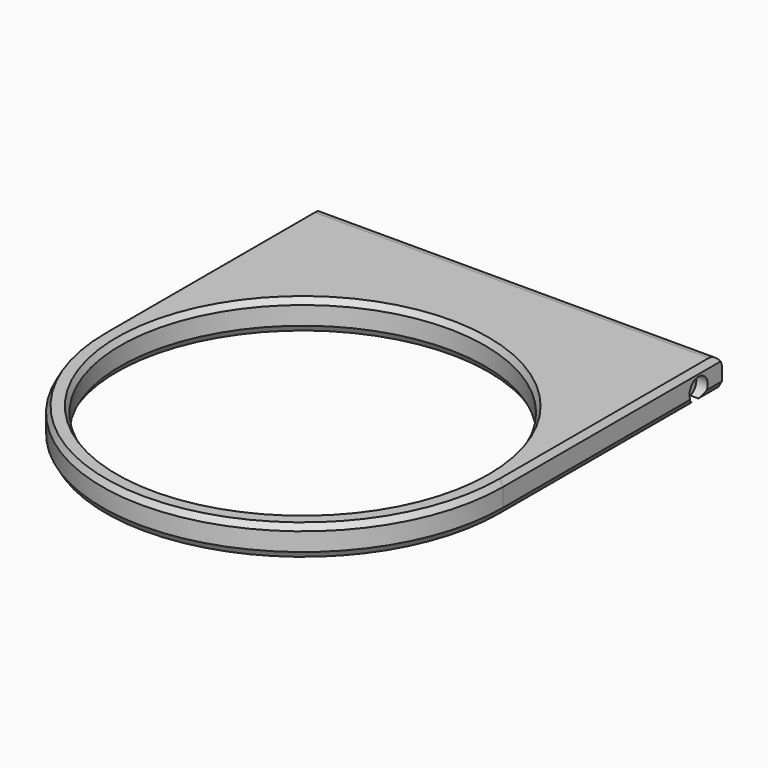
from build123d import *

# Parameters (mm, degrees)
F0_R                 = 60
F1_DEPTH             = 10
F2_SIZE2             = 1.1547005384
F2_SIZE              = 2
F2_2_SIZE2           = 1.1547005384
F2_2_SIZE            = 2
F3_R                 = 4
F4_W                 = 5
F4_H                 = 50
F4_W_2               = 2.6
F4_H_2               = 5.7
F5_DEPTH             = 7.4
F8_D                 = 3.4
F8_DEPTH             = 15
F8_CBORE_D           = 7.5
F8_CBORE_DEPTH       = 3.75
F8_TIP               = 1.0214630523
F8_ON_F7_D           = 3.4
F8_ON_F7_DEPTH       = 15
F8_ON_F7_CBORE_D     = 7.5
F8_ON_F7_CBORE_DEPTH = 3.75
F8_ON_F7_TIP         = 1.0214630523


with BuildPart() as f1:
    # F0 (on Top) → F1 (new body)
    with BuildSketch(Plane.XY):
        with BuildLine():
            Line((-66, 90), (-66, 0))
            ThreePointArc((-66, 0), (0, -66), (66, 0))
            Line((66, 0), (66, 90))
            Line((66, 90), (-66, 90))
        make_face()
        Circle(F0_R, mode=Mode.SUBTRACT)
    extrude(amount=F1_DEPTH)

    # F2
    f2_edges = [f1.edges().sort_by_distance(p)[0] for p in [
        (0, -66, 0),
        (0, -66, 10),
    ]]
    f2_side = f1.faces().sort_by_distance((0, -66, 5))[0]
    chamfer(f2_edges, length=F2_SIZE, length2=F2_SIZE2, reference=f2_side)

    # F2#2
    f2_2_edges = [f1.edges().sort_by_distance(p)[0] for p in [
        (-60, 0, 10),
        (-60, 0, 0),
    ]]
    f2_2_side = f1.faces().sort_by_distance((-60, 0, 5))[0]
    chamfer(f2_2_edges, length=F2_2_SIZE, length2=F2_2_SIZE2, reference=f2_2_side)

    # F3
    f3_edges = [f1.edges().sort_by_distance(p)[0] for p in [
        (0, 90, 10),
    ]]
    fillet(f3_edges, radius=F3_R)

    # F4 (on face) → F5 (cut)
    with BuildSketch(Plane(origin=(0, 0, 0), x_dir=(1, 0, 0), z_dir=(0, 0, -1))):
        with Locations((58.75, -65)):
            Rectangle(F4_W, F4_H)
        with Locations((-58.75, -65)):
            Rectangle(F4_W, F4_H)
        with Locations((-53.95, -80.4)):
            Rectangle(F4_W_2, F4_H_2)
        with Locations((53.95, -80.4)):
            Rectangle(F4_W_2, F4_H_2)
    extrude(amount=-F5_DEPTH, mode=Mode.SUBTRACT)

    # F8
    with Locations(Plane(origin=(-66, 0, 0), x_dir=(0, -1, 0), z_dir=(-1, 0, 0))):
        with Locations((-80.4, 3.5)):
            CounterBoreHole(F8_D / 2, F8_CBORE_D / 2, F8_CBORE_DEPTH, depth=F8_DEPTH)
            with Locations((0, 0, -(F8_DEPTH + F8_TIP / 2))):  # 118° drill point
                Cone(0, F8_D / 2, F8_TIP, mode=Mode.SUBTRACT)

    # F8 on F7
    with Locations(Plane.YZ.offset(66)):
        with Locations((80.4, 3.5)):
            CounterBoreHole(F8_ON_F7_D / 2, F8_ON_F7_CBORE_D / 2, F8_ON_F7_CBORE_DEPTH, depth=F8_ON_F7_DEPTH)
            with Locations((0, 0, -(F8_ON_F7_DEPTH + F8_ON_F7_TIP / 2))):  # 118° drill point
                Cone(0, F8_ON_F7_D / 2, F8_ON_F7_TIP, mode=Mode.SUBTRACT)


solid = f1.part
